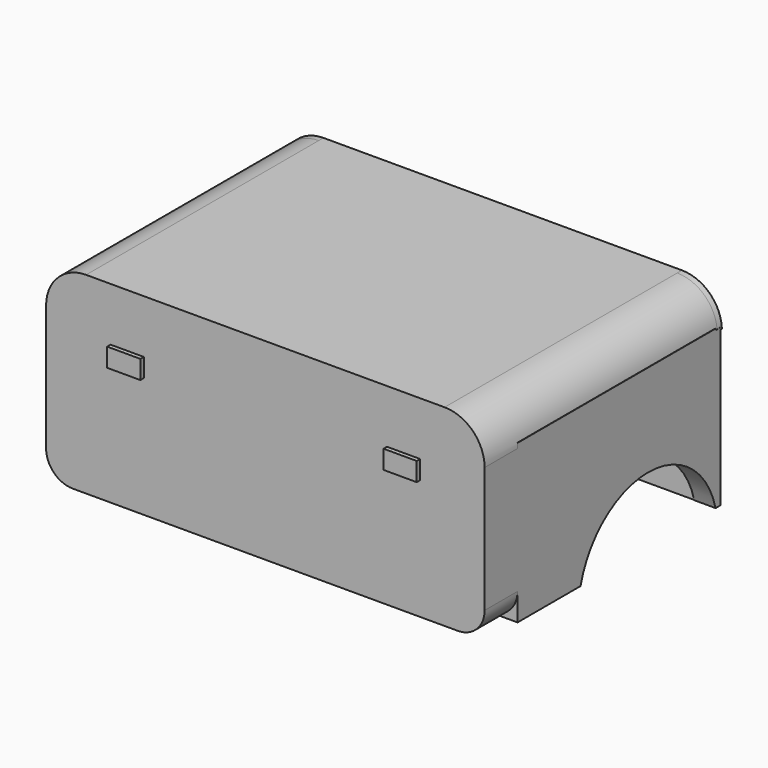
from build123d import *

# Parameters (mm, degrees)
F0_W      = 82
F0_H      = 36
F1_DEPTH  = 7.7
F2_W      = 82
F2_H      = 54
F3_DEPTH  = 7.2
F4_R      = 7.4840620434
F5_R      = 5
F6_W      = 6.2068961561
F6_H      = 3.4913793206
F7_DEPTH  = 0.8
F10_DEPTH = 4
F11_DEPTH = 4
F12_W     = 81.9998856485
F12_H     = 29.2846155894
F13_DEPTH = 1.1


with BuildPart() as f1:
    # F0 (on Front) → F1 (new body)
    with BuildSketch(Plane.XZ):
        Rectangle(F0_W, F0_H)
    extrude(amount=F1_DEPTH)

    # F2 (on face) → F3 (join)
    with BuildSketch(Plane.XY.offset(18)):
        with Locations((0, 19.672181885)):
            Rectangle(F2_W, F2_H)
    extrude(amount=-F3_DEPTH)

    # F4
    f4_edges = [f1.edges().sort_by_distance(p)[0] for p in [
        (41, 19.486091, 18),
        (-41, 19.486091, 18),
    ]]
    fillet(f4_edges, radius=F4_R)

    # F5
    f5_edges = [f1.edges().sort_by_distance(p)[0] for p in [
        (-41, -3.85, -18),
        (41, -3.85, -18),
    ]]
    fillet(f5_edges, radius=F5_R)

    # F6 (on face) → F7 (join)
    with BuildSketch(Plane.XZ.offset(7.7)):
        with Locations((-25.83758533, 6.2539605424)):
            Rectangle(F6_W, F6_H)
        with Locations((25.83758533, 6.2539605424)):
            Rectangle(F6_W, F6_H)
    extrude(amount=F7_DEPTH)

    # F8 (on face) → F10 (join)
    with BuildSketch(Plane.YZ.offset(41)):
        with BuildLine():
            Line((46.3586388528, 11.4392106599), (0, 11.4392106599))
            Line((0, 11.4392106599), (0, 10.5159379566))
            Line((0, 10.5159379566), (0, -13))
            Line((0, -13), (0, -18.1146790814))
            Line((0, -18.1146790814), (14.7262415299, -18.1146790814))
            ThreePointArc((14.7262415299, -18.1146790814), (30.5080702528, -5.8071597095), (46.2898989758, -18.1146790814))
            Line((46.2898989758, -18.1146790814), (46.3586388528, -18.1146790814))
            Line((46.3586388528, -18.1146790814), (46.3586388528, 11.4392106599))
        make_face()
    extrude(amount=-F10_DEPTH)

    # F9 (on face) → F11 (join)
    with BuildSketch(Plane(origin=(-41, 0, 0), x_dir=(0, -1, 0), z_dir=(-1, 0, 0))):
        with BuildLine():
            Line((0, 10.5159379566), (0, 11.1698398332))
            Line((0, 11.1698398332), (-47.3828552663, 11.1698398332))
            Line((-47.3828552663, 11.1698398332), (-47.3828552663, -16.3062599394))
            ThreePointArc((-47.3828552663, -16.3062599394), (-29.7853048283, -4.7156749244), (-13.1738176833, -17.6800081985))
            Line((-13.1738176833, -17.6800081985), (0, -17.6800081985))
            Line((0, -17.6800081985), (0, -13))
            Line((0, -13), (0, 10.5159379566))
        make_face()
    extrude(amount=-F11_DEPTH)

    # F12 (on face) + F3_face2 (on face) → F13 (join)
    with BuildSketch(Plane(origin=(0, 46.3586388528, 0), x_dir=(-1, 0, 0), z_dir=(0, 1, 0))):
        with Locations((-5.71758e-05, -3.4723712868)):
            Rectangle(F12_W, F12_H)
    with BuildSketch(Plane(origin=(0.1017201648, 46.672181885, 14.3268391262), x_dir=(-1, 0, 0), z_dir=(0, 1, 0))):
        with BuildLine():
            Line((33.6176581214, 3.6731608738), (-33.4142177919, 3.6731608738))
            ThreePointArc((-33.4142177919, 3.6731608738), (-38.6048462082, 1.5806256376), (-40.8928870201, -3.5268391262))
            Line((-40.8928870201, -3.5268391262), (37.1017201648, -3.5268391262))
            Line((37.1017201648, -3.5268391262), (37.1017201648, -3.156999293))
            Line((37.1017201648, -3.156999293), (41.0730988867, -3.156999293))
            ThreePointArc((41.0730988867, -3.156999293), (38.67321657, 1.7074784333), (33.6176581214, 3.6731608738))
        make_face()
    extrude(amount=F13_DEPTH)


solid = f1.part
